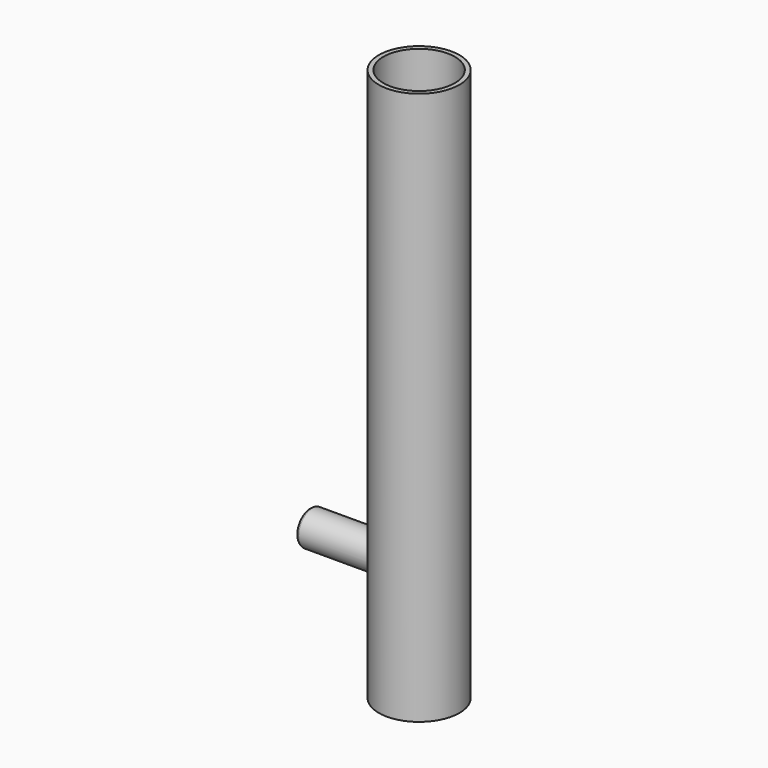
from build123d import *

# Parameters (mm, degrees)
F0_R     = 22.225
F0_R_2   = 19.685
F1_DEPTH = 304.8
F4_R     = 9.525
F7_D     = 5.4102
F7_DEPTH = 19.05
F7_TIP   = 1.6253880605
F8_R     = 1.5875


with BuildPart() as f1:
    # F0 (on Top) → F1 (new body)
    with BuildSketch(Plane.XY):
        Circle(F0_R)
        Circle(F0_R_2, mode=Mode.SUBTRACT)
    extrude(amount=F1_DEPTH)

    # F4 (on line) → F5 (join, up to the next surface of F1)
    with BuildSketch(Plane(origin=(-60.325, 0, 0), x_dir=(0, -1, 0), z_dir=(-1, 0, 0))):
        with Locations((0, 63.5)):
            Circle(F4_R)
    extrude(until=Until.NEXT, dir=(1, 0, 0))

    # F7
    with Locations(Plane(origin=(-60.325, 0, 0), x_dir=(0, -1, 0), z_dir=(-1, 0, 0))):
        with Locations((0, 63.5)):
            Hole(F7_D / 2, depth=F7_DEPTH)
            with Locations((0, 0, -(F7_DEPTH + F7_TIP / 2))):  # 118° drill point
                Cone(0, F7_D / 2, F7_TIP, mode=Mode.SUBTRACT)

    # F8
    f8_edges = [f1.edges().sort_by_distance(p)[0] for p in [
        (-60.325, 9.525, 63.5),
    ]]
    fillet(f8_edges, radius=F8_R)


solid = f1.part
